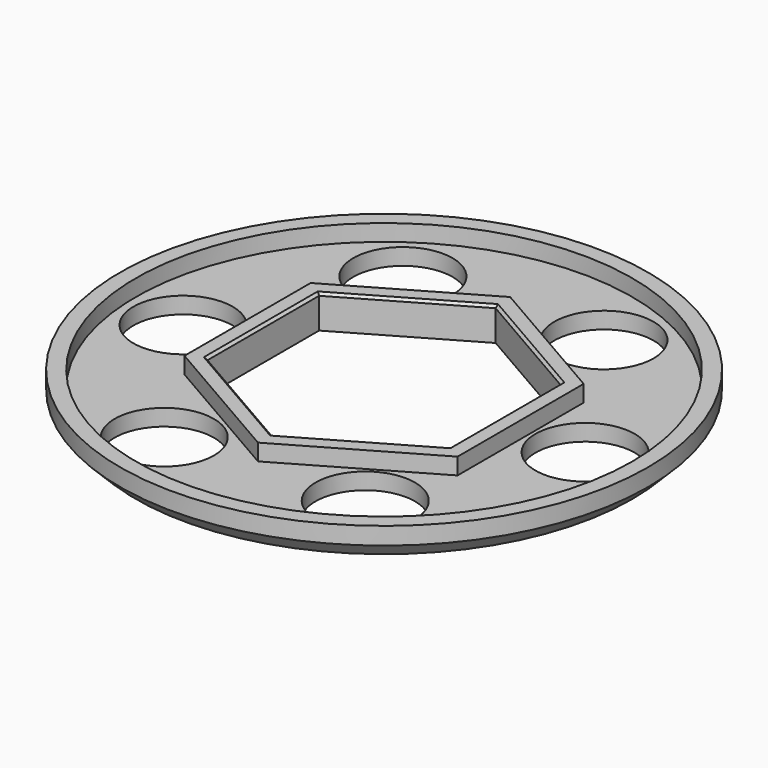
from build123d import *

# Parameters (mm, degrees)
SKETCH_R        = 31.9
SKETCH_R_2      = 6
PAD_DEPTH       = 2
SKETCH001_R     = 31.9
SKETCH001_R_2   = 30
PAD001_DEPTH    = 2
PAD002_DEPTH    = 2
CHAMFER_SIZE    = 1.9
CHAMFER001_SIZE = 0.3


with BuildPart() as part:
    # Sketch → Pad (new body)
    with BuildSketch(Plane.XY):
        Circle(SKETCH_R)
        with Locations((9.999037, 20.71278)):
            Circle(SKETCH_R_2, mode=Mode.SUBTRACT)
        with Locations((22.937312, 1.69697)):
            Circle(SKETCH_R_2, mode=Mode.SUBTRACT)
        with Locations((12.938275, -19.01581)):
            Circle(SKETCH_R_2, mode=Mode.SUBTRACT)
        with Locations((-9.999037, -20.71278)):
            Circle(SKETCH_R_2, mode=Mode.SUBTRACT)
        with Locations((-22.937312, -1.69697)):
            Circle(SKETCH_R_2, mode=Mode.SUBTRACT)
        with Locations((-12.938275, 19.01581)):
            Circle(SKETCH_R_2, mode=Mode.SUBTRACT)
        Polygon((0, 16.858628), (-14.6, 8.429314), (-14.6, -8.429314), (0, -16.858628), (14.6, -8.429314), (14.6, 8.429314), align=None, mode=Mode.SUBTRACT)
    extrude(amount=PAD_DEPTH)

    # Sketch001 (on Face15 of Pad) → Pad001 (join)
    with BuildSketch(Plane.XY.offset(2)):
        Circle(SKETCH001_R)
        Circle(SKETCH001_R_2, mode=Mode.SUBTRACT)
    extrude(amount=PAD001_DEPTH)

    # Sketch002 (on Face17 of Pad001) → Pad002 (join)
    with BuildSketch(Plane.XY.offset(2)):
        Polygon((0, 19.052559), (-16.5, 9.526279), (-16.5, -9.526279), (0, -19.052559), (16.5, -9.526279), (16.5, 9.526279), align=None)
        Polygon((0, 16.858628), (-14.6, 8.429314), (-14.6, -8.429314), (0, -16.858628), (14.6, -8.429314), (14.6, 8.429314), align=None, mode=Mode.SUBTRACT)
    extrude(amount=PAD002_DEPTH)

    # Chamfer
    chamfer_edges = [part.edges().sort_by_distance(p)[0] for p in [
        (-31.9, 0, 0),
    ]]
    chamfer(chamfer_edges, length=CHAMFER_SIZE)

    # Chamfer001
    chamfer001_edges = [part.edges().sort_by_distance(p)[0] for p in [
        (-7.3, -12.643971, 4),
        (-14.6, 0, 4),
        (-7.3, 12.643971, 4),
        (7.3, 12.643971, 4),
        (14.6, 0, 4),
        (7.3, -12.643971, 4),
    ]]
    chamfer(chamfer001_edges, length=CHAMFER001_SIZE)


solid = part.part
